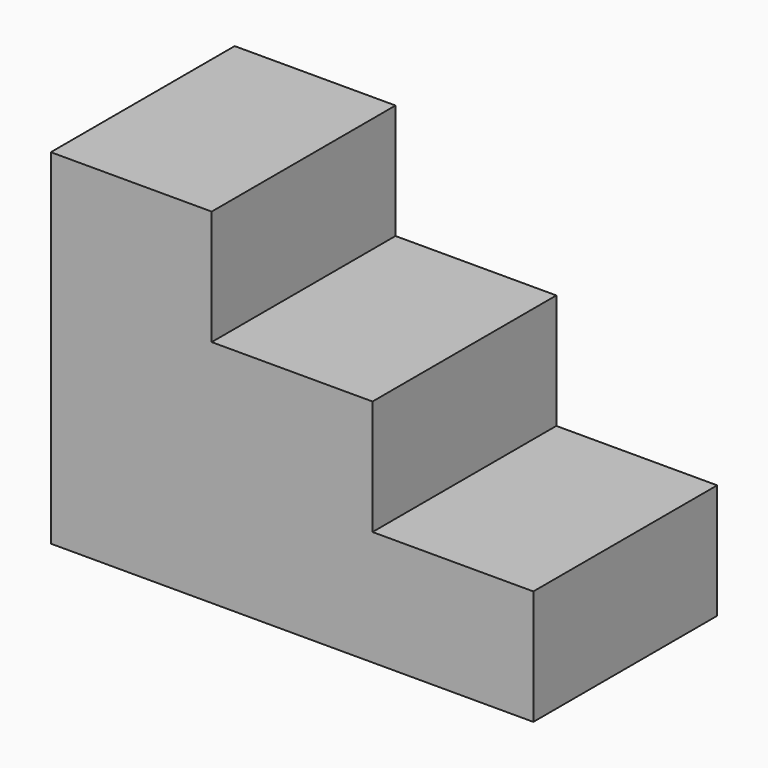
from build123d import *

# Parameters (mm, degrees)
F0_W     = 2667
F0_H     = 1905
F1_DEPTH = 1270
F3_DEPTH = 1270.001


with BuildPart() as f1:
    # F0 (on Front) → F1 (new body)
    with BuildSketch(Plane.XZ):
        with Locations((1333.5, 952.5)):
            Rectangle(F0_W, F0_H)
        with Locations((1333.5, 952.5)):
            Rectangle(F0_W, F0_H)
    extrude(amount=F1_DEPTH)

    # F2 (on face) → F3 (cut, through all)
    with BuildSketch(Plane(origin=(0, 0, 0), x_dir=(-1, 0, 0), z_dir=(0, 1, 0))):
        Polygon((-2667, 1905), (-2667, 635), (-1778, 635), (-1778, 1270), (-889, 1270), (-889, 1905), align=None)
    extrude(amount=-F3_DEPTH, mode=Mode.SUBTRACT)


solid = f1.part
